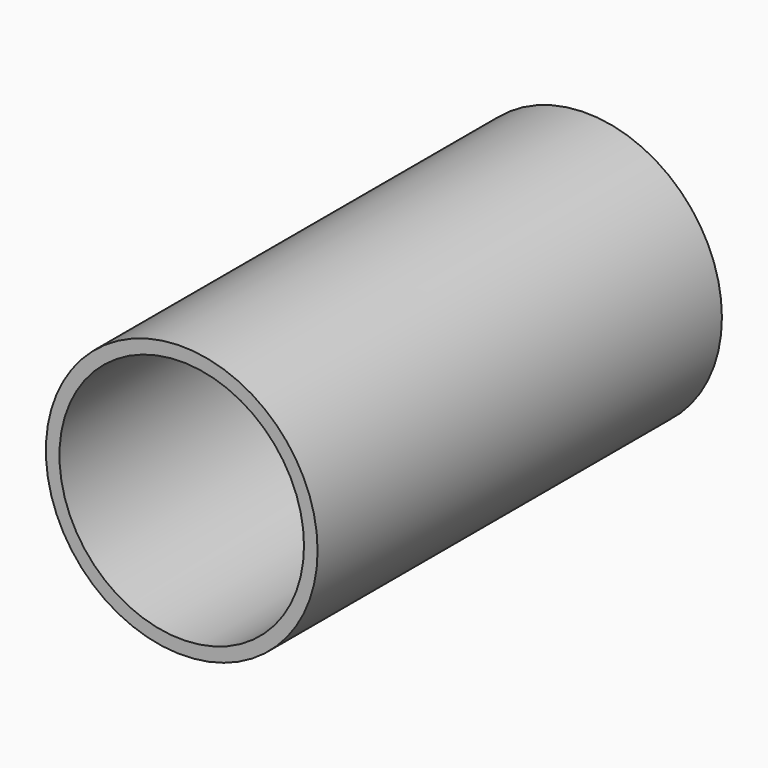
from build123d import *

# Parameters (mm, degrees)
F0_R     = 25.4
F1_DEPTH = 47.244
F2_T     = -2.54


with BuildPart() as f1:
    # F0 (on Front) → F1 (new body, symmetric)
    with BuildSketch(Plane.XZ):
        Circle(F0_R)
    extrude(amount=F1_DEPTH, both=True)

    # F2
    f2_openings = [f1.faces().sort_by_distance(p)[0] for p in [
        (0, -47.244, 0),
    ]]
    offset(amount=F2_T, openings=f2_openings)


solid = f1.part
